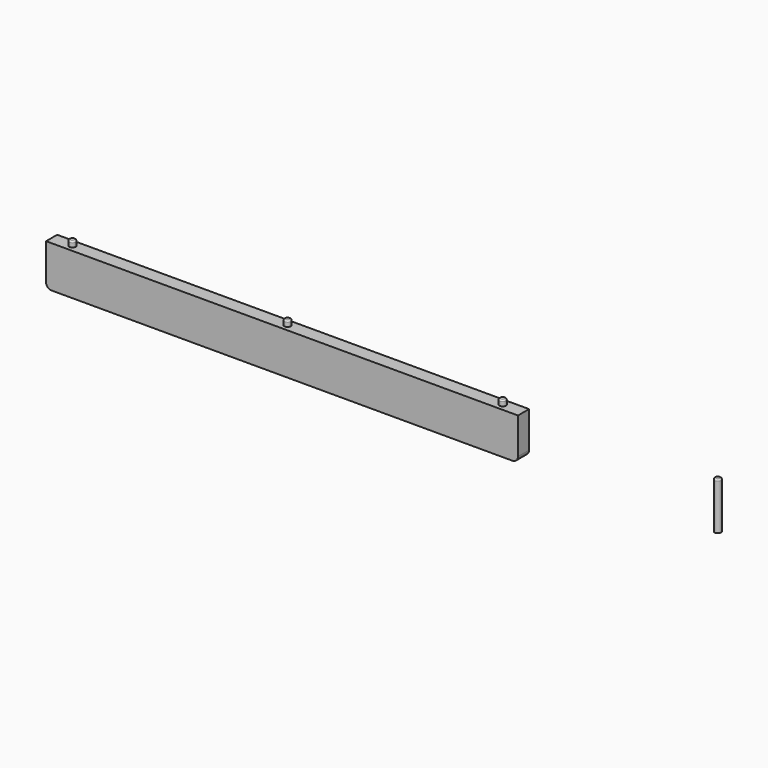
from build123d import *

# Parameters (mm, degrees)
F0_W     = 170
F0_H     = 5
F0_R     = 1.15
F1_DEPTH = 15
F2_DEPTH = 17
F3_R     = 0.5
F4_R     = 2


with BuildPart() as f1:
    # F0 (on Top) → F1 (new body)
    with BuildSketch(Plane.XY):
        Rectangle(F0_W, F0_H)
        with Locations((-77.5, 0)):
            Circle(F0_R, mode=Mode.SUBTRACT)
        Circle(F0_R, mode=Mode.SUBTRACT)
        with Locations((77.5, 0)):
            Circle(F0_R, mode=Mode.SUBTRACT)
    extrude(amount=F1_DEPTH)

    # F0 (on Top) → F2 (join)
    with BuildSketch(Plane.XY):
        with Locations((-77.5, 0)):
            Circle(F0_R)
        Circle(F0_R)
        with Locations((77.5, 0)):
            Circle(F0_R)
        with Locations((155, 0)):
            Circle(F0_R)
    extrude(amount=F2_DEPTH)

    # F3
    f3_edges = [f1.edges().sort_by_distance(p)[0] for p in [
        (-78.65, 0, 17),
        (-1.15, 0, 17),
        (76.35, 0, 17),
        (153.85, 0, 17),
    ]]
    fillet(f3_edges, radius=F3_R)

    # F4
    f4_edges = [f1.edges().sort_by_distance(p)[0] for p in [
        (-85, 0, 0),
        (85, 0, 0),
    ]]
    fillet(f4_edges, radius=F4_R)


solid = f1.part
